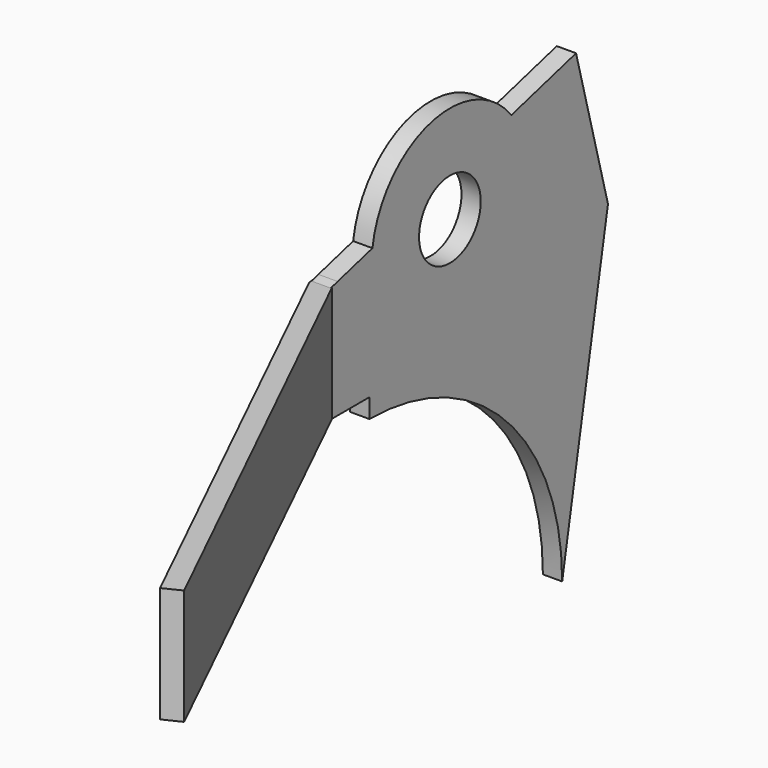
from build123d import *

# Parameters (mm, degrees)
F1_R     = 6.35
F4_DEPTH = 3.175
F3_W     = 87.3092064199
F3_H     = 19.05
F5_DEPTH = 3.175


with BuildPart() as f4:
    # F1 (on Right) → F4 (new body)
    with BuildSketch(Plane.YZ):
        with BuildLine():
            Line((0.6222905674, 64.2132304913), (-6.5408389588, 62.2938757195))
            Line((-6.5408389588, 62.2938757195), (-7.9641525208, 61.9125))
            Line((-7.9641525208, 61.9125), (-8.4137834582, 61.9125))
            Line((-8.4137834582, 61.9125), (-8.4137834582, 42.8625))
            Line((-8.4137834582, 42.8625), (0, 42.8625))
            Line((0, 42.8625), (0, 39.6875))
            ThreePointArc((0, 39.6875), (28.0633003783, 28.0633003783), (39.6875, 0))
            Line((39.6875, 0), (49.1165629467, 50.9112166305))
            Line((49.1165629467, 50.9112166305), (42.5425592011, 75.4457326182))
            Line((42.5425592011, 75.4457326182), (29.2314344936, 71.8790275025))
            ThreePointArc((29.2314344936, 71.8790275025), (12.3999670491, 77.4766313192), (0.6222905674, 64.2132304913))
        make_face()
        with Locations((16.5703634669, 61.9125)):
            Circle(F1_R, mode=Mode.SUBTRACT)
    extrude(amount=F4_DEPTH)

    # F3 (on line) → F5 (join)
    with BuildSketch(Plane(origin=(-3.3113448684, -1.612102107, 0), x_dir=(0.4377242502, -0.8991092708, 0), z_dir=(-0.8991092708, -0.4377242502, 0))):
        with Locations((51.2195139193, 52.3875)):
            Rectangle(F3_W, F3_H)
    extrude(amount=-F5_DEPTH)


solid = f4.part
